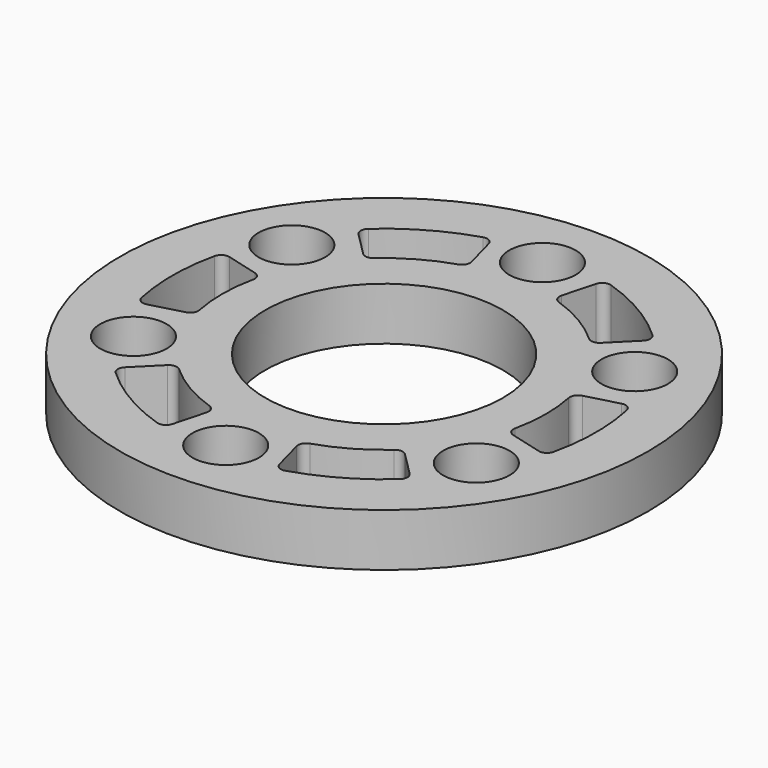
from build123d import *

# Parameters (mm, degrees)
F0_R     = 31.75
F0_R_2   = 4.0005
F0_R_3   = 14.3002
F1_DEPTH = 6.35


with BuildPart() as f1:
    # F0 (on Top) → F1 (new body)
    with BuildSketch(Plane.XY):
        Circle(F0_R)
        with BuildLine():
            ThreePointArc((-6.226129, -18.486919), (-5.669229, -18.957696), (-5.585454, -19.682094))
            Line((-5.585454, -19.682094), (-6.625875, -23.564999))
            ThreePointArc((-6.625875, -23.564999), (-7.110205, -24.179255), (-7.889173, -24.250619))
            ThreePointArc((-7.889173, -24.250619), (-12.886326, -22.006231), (-17.288853, -18.746391))
            ThreePointArc((-17.288853, -18.746391), (-17.607672, -18.038216), (-17.317734, -17.317734))
            Line((-17.317734, -17.317734), (-14.477198, -14.477198))
            ThreePointArc((-14.477198, -14.477198), (-13.800681, -14.187347), (-13.110948, -14.444165))
            ThreePointArc((-13.110948, -14.444165), (-9.877581, -16.821541), (-6.226129, -18.486919))
        make_face(mode=Mode.SUBTRACT)
        with Locations((-20.62223, -11.90625)):
            Circle(F0_R_2, mode=Mode.SUBTRACT)
        with Locations((0, -23.8125)):
            Circle(F0_R_2, mode=Mode.SUBTRACT)
        with BuildLine():
            ThreePointArc((12.897077, -14.635446), (13.583232, -14.388544), (14.252466, -14.678192))
            Line((14.252466, -14.678192), (17.094951, -17.520676))
            ThreePointArc((17.094951, -17.520676), (17.384746, -18.247246), (17.057066, -18.957534))
            ThreePointArc((17.057066, -18.957534), (12.614792, -22.163001), (7.590424, -24.345781))
            ThreePointArc((7.590424, -24.345781), (6.817717, -24.267799), (6.338731, -23.656465))
            Line((6.338731, -23.656465), (5.299022, -19.77622))
            ThreePointArc((5.299022, -19.77622), (5.386262, -19.045414), (5.95354, -18.576496))
            ThreePointArc((5.95354, -18.576496), (9.629092, -16.965006), (12.897077, -14.635446))
        make_face(mode=Mode.SUBTRACT)
        with Locations((20.62223, -11.90625)):
            Circle(F0_R_2, mode=Mode.SUBTRACT)
        with BuildLine():
            ThreePointArc((19.123206, 3.851473), (19.252461, 4.569152), (19.83792, 5.003902))
            Line((19.83792, 5.003902), (23.720826, 6.044323))
            ThreePointArc((23.720826, 6.044323), (24.494951, 5.932009), (24.946239, 5.293085))
            ThreePointArc((24.946239, 5.293085), (25.501118, -0.15677), (24.879277, -5.599391))
            ThreePointArc((24.879277, -5.599391), (24.425389, -6.229583), (23.656465, -6.338731))
            Line((23.656465, -6.338731), (19.77622, -5.299022))
            ThreePointArc((19.77622, -5.299022), (19.186944, -4.858067), (19.064488, -4.132331))
            ThreePointArc((19.064488, -4.132331), (19.506672, -0.143465), (19.123206, 3.851473))
        make_face(mode=Mode.SUBTRACT)
        with BuildLine():
            ThreePointArc((-19.123206, -3.851473), (-19.252461, -4.569152), (-19.83792, -5.003902))
            Line((-19.83792, -5.003902), (-23.720826, -6.044323))
            ThreePointArc((-23.720826, -6.044323), (-24.494951, -5.932009), (-24.946239, -5.293085))
            ThreePointArc((-24.946239, -5.293085), (-25.501118, 0.15677), (-24.879277, 5.599391))
            ThreePointArc((-24.879277, 5.599391), (-24.425389, 6.229583), (-23.656465, 6.338731))
            Line((-23.656465, 6.338731), (-19.77622, 5.299022))
            ThreePointArc((-19.77622, 5.299022), (-19.186944, 4.858067), (-19.064488, 4.132331))
            ThreePointArc((-19.064488, 4.132331), (-19.506672, 0.143465), (-19.123206, -3.851473))
        make_face(mode=Mode.SUBTRACT)
        with Locations((-20.62223, 11.90625)):
            Circle(F0_R_2, mode=Mode.SUBTRACT)
        with BuildLine():
            ThreePointArc((-12.897077, 14.635446), (-13.583232, 14.388544), (-14.252466, 14.678192))
            Line((-14.252466, 14.678192), (-17.094951, 17.520676))
            ThreePointArc((-17.094951, 17.520676), (-17.384746, 18.247246), (-17.057066, 18.957534))
            ThreePointArc((-17.057066, 18.957534), (-12.614792, 22.163001), (-7.590424, 24.345781))
            ThreePointArc((-7.590424, 24.345781), (-6.817717, 24.267799), (-6.338731, 23.656465))
            Line((-6.338731, 23.656465), (-5.299022, 19.77622))
            ThreePointArc((-5.299022, 19.77622), (-5.386262, 19.045414), (-5.95354, 18.576496))
            ThreePointArc((-5.95354, 18.576496), (-9.629092, 16.965006), (-12.897077, 14.635446))
        make_face(mode=Mode.SUBTRACT)
        Circle(F0_R_3, mode=Mode.SUBTRACT)
        with Locations((20.62223, 11.90625)):
            Circle(F0_R_2, mode=Mode.SUBTRACT)
        with BuildLine():
            Line((17.317734, 17.317734), (14.477198, 14.477198))
            ThreePointArc((14.477198, 14.477198), (13.800681, 14.187347), (13.110948, 14.444165))
            ThreePointArc((13.110948, 14.444165), (9.877581, 16.821541), (6.226129, 18.486919))
            ThreePointArc((6.226129, 18.486919), (5.669229, 18.957696), (5.585454, 19.682094))
            Line((5.585454, 19.682094), (6.625875, 23.564999))
            ThreePointArc((6.625875, 23.564999), (7.110205, 24.179255), (7.889173, 24.250619))
            ThreePointArc((7.889173, 24.250619), (12.886326, 22.006231), (17.288853, 18.746391))
            ThreePointArc((17.288853, 18.746391), (17.607672, 18.038216), (17.317734, 17.317734))
        make_face(mode=Mode.SUBTRACT)
        with Locations((0, 23.8125)):
            Circle(F0_R_2, mode=Mode.SUBTRACT)
    extrude(amount=F1_DEPTH)


solid = f1.part
